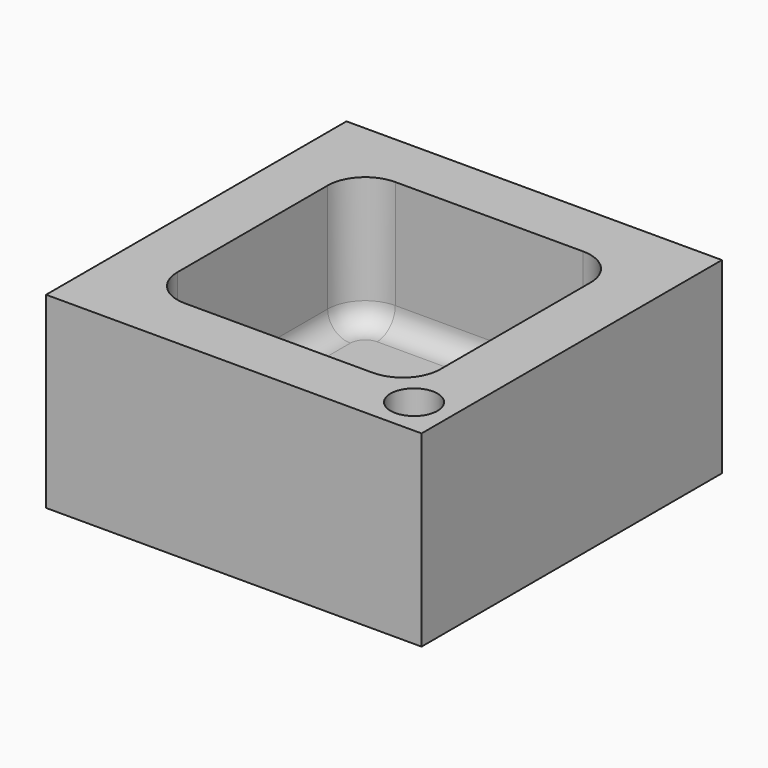
from build123d import *

# Parameters (mm, degrees)
F0_W     = 50.8
F0_H     = 25.4
F1_DEPTH = 50.8
F2_T     = -7.62
F3_R     = 5.08
F4_R     = 5.08
F5_R     = 5.08
F6_R     = 5.08
F8_D     = 6.35
F9_R     = 3.0660512242


with BuildPart() as f1:
    # F0 (on Front) → F1 (new body)
    with BuildSketch(Plane.XZ):
        with Locations((25.4, 12.7)):
            Rectangle(F0_W, F0_H)
    extrude(amount=F1_DEPTH)

    # F2
    f2_openings = [f1.faces().sort_by_distance(p)[0] for p in [
        (25.4, -25.4, 25.4),
    ]]
    offset(amount=F2_T, openings=f2_openings)

    # F3
    f3_edges = [f1.edges().sort_by_distance(p)[0] for p in [
        (7.62, -7.62, 16.51),
    ]]
    fillet(f3_edges, radius=F3_R)

    # F4
    f4_edges = [f1.edges().sort_by_distance(p)[0] for p in [
        (7.62, -43.18, 16.51),
    ]]
    fillet(f4_edges, radius=F4_R)

    # F5
    f5_edges = [f1.edges().sort_by_distance(p)[0] for p in [
        (43.18, -43.18, 16.51),
    ]]
    fillet(f5_edges, radius=F5_R)

    # F6
    f6_edges = [f1.edges().sort_by_distance(p)[0] for p in [
        (43.18, -7.62, 16.51),
    ]]
    fillet(f6_edges, radius=F6_R)

    # F8 (through all)
    with Locations(Plane.XY.offset(25.4)):
        with Locations((45.72, -45.72)):
            Hole(F8_D / 2)

    # F9
    f9_edges = [f1.edges().sort_by_distance(p)[0] for p in [
        (25.4, -7.62, 7.62),
    ]]
    fillet(f9_edges, radius=F9_R)


solid = f1.part
